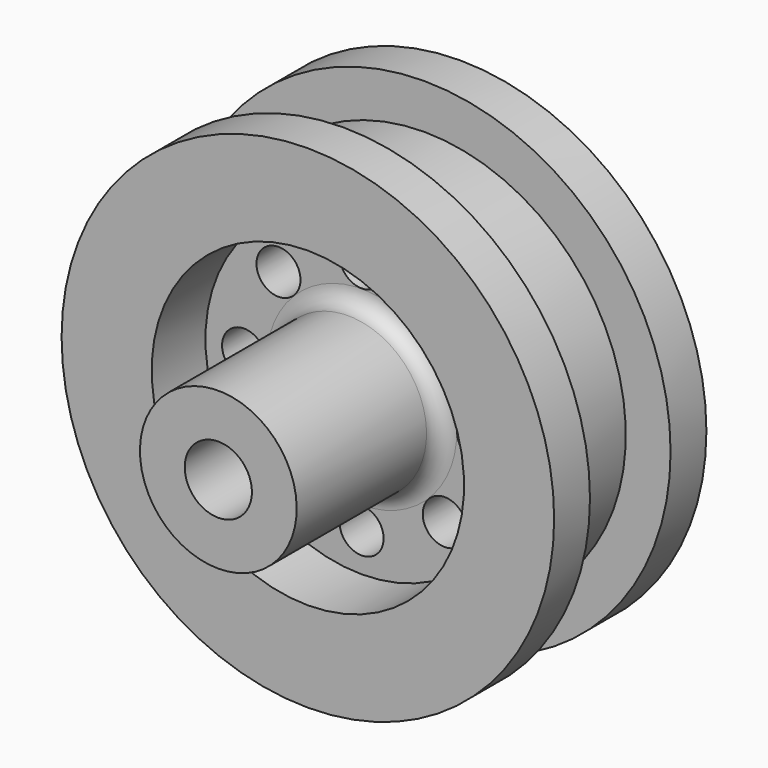
from build123d import *

# Parameters (mm, degrees)
F3_R     = 1.965614
F4_DEPTH = 11.001
F5_R     = 1.5


with BuildPart() as f1:
    # F0 (on Right) → F1 (revolve)
    with BuildSketch(Plane.YZ):
        Polygon((13, -3), (-10, -3), (-10, -7), (6, -7), (6, -13.950632), (0, -13.950632), (0, -22), (4, -22), (4, -18), (13, -18), (13, -22), (17, -22), (17, -14), (10, -14), (10, -7), (13, -7), align=None)
    revolve(axis=Axis((0, -0.087436, 0), (0, 1, 0)))

    # F3 (on face) → F4 (cut, through all)
    with BuildSketch(Plane.XZ.offset(-6)):
        with Locations((10.5, 0)):
            Circle(F3_R)
        with Locations((7.424621, 7.424621)):
            Circle(F3_R)
        with Locations((0, 10.5)):
            Circle(F3_R)
        with Locations((-7.424621, 7.424621)):
            Circle(F3_R)
        with Locations((-10.5, 0)):
            Circle(F3_R)
        with Locations((-7.424621, -7.424621)):
            Circle(F3_R)
        with Locations((0, -10.5)):
            Circle(F3_R)
        with Locations((7.424621, -7.424621)):
            Circle(F3_R)
    extrude(amount=-F4_DEPTH, mode=Mode.SUBTRACT)

    # F5
    f5_edges = [f1.edges().sort_by_distance(p)[0] for p in [
        (0, 6, 7),
    ]]
    fillet(f5_edges, radius=F5_R)


solid = f1.part
